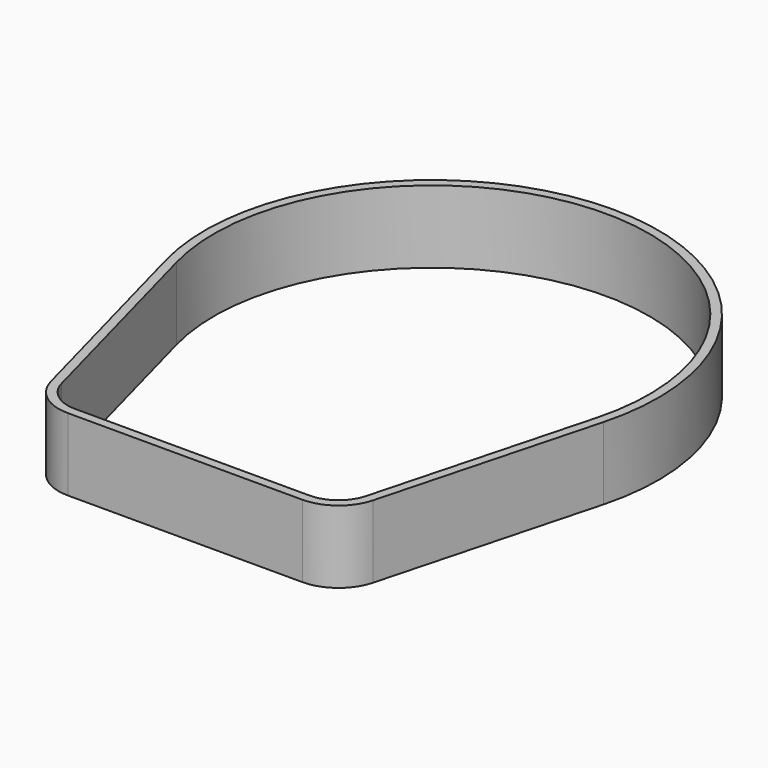
from build123d import *

# Parameters (mm, degrees)
F1_DEPTH = 12.7


with BuildPart() as f1:
    # F0 (on Top) → F1 (new body)
    with BuildSketch(Plane.XY):
        with BuildLine():
            Line((-20.52823, -53.975), (20.52823, -53.975))
            ThreePointArc((20.52823, -53.975), (25.359802, -52.335104), (28.194958, -48.093026))
            Line((28.194958, -48.093026), (38.333641, -10.277629))
            ThreePointArc((38.333641, -10.277629), (0, 39.6875), (-38.333641, -10.277629))
            Line((-38.333641, -10.277629), (-28.194958, -48.093026))
            ThreePointArc((-28.194958, -48.093026), (-25.359802, -52.335104), (-20.52823, -53.975))
        make_face()
        with BuildLine():
            ThreePointArc((-36.800295, -9.866524), (0, 38.1), (36.800295, -9.866524))
            Line((36.800295, -9.866524), (26.661612, -47.681921))
            ThreePointArc((26.661612, -47.681921), (24.393487, -51.075584), (20.52823, -52.3875))
            Line((20.52823, -52.3875), (-20.52823, -52.3875))
            ThreePointArc((-20.52823, -52.3875), (-24.393487, -51.075584), (-26.661612, -47.681921))
            Line((-26.661612, -47.681921), (-36.800295, -9.866524))
        make_face(mode=Mode.SUBTRACT)
    extrude(amount=F1_DEPTH)


solid = f1.part
